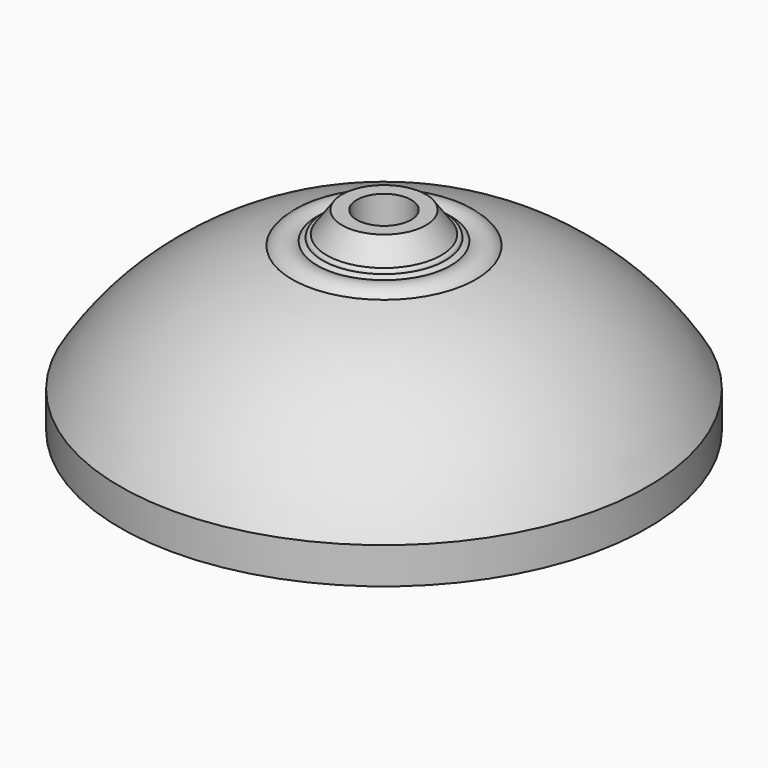
from build123d import *


with BuildPart() as f1:
    # F0 (on Right) → F1 (revolve)
    with BuildSketch(Plane.YZ):
        with BuildLine():
            Line((7.112, 38.1), (7.112, 0))
            Line((7.112, 0), (7.112, -4.171182))
            Line((7.112, -4.171182), (15.030365, -4.171182))
            Line((15.030365, -4.171182), (20.204499, -10.45406))
            ThreePointArc((20.204499, -10.45406), (44.742252, -10.064608), (69.132417, -12.7799))
            Line((69.132417, -12.7799), (69.132417, -3.258596))
            ThreePointArc((69.132417, -3.258596), (49.813981, 17.674751), (24.069713, 29.866539))
            ThreePointArc((24.069713, 29.866539), (20.994768, 31.735667), (17.485105, 30.94119))
            ThreePointArc((17.485105, 30.94119), (16.807117, 31.344117), (16.070869, 31.62688))
            ThreePointArc((16.070869, 31.62688), (15.755715, 32.331115), (14.999476, 32.483991))
            Line((14.999476, 32.483991), (10.971044, 38.1))
            Line((10.971044, 38.1), (7.112, 38.1))
        make_face()
    revolve(axis=Axis((0, 0, 15.632516), (0, 0, -1)))


solid = f1.part
